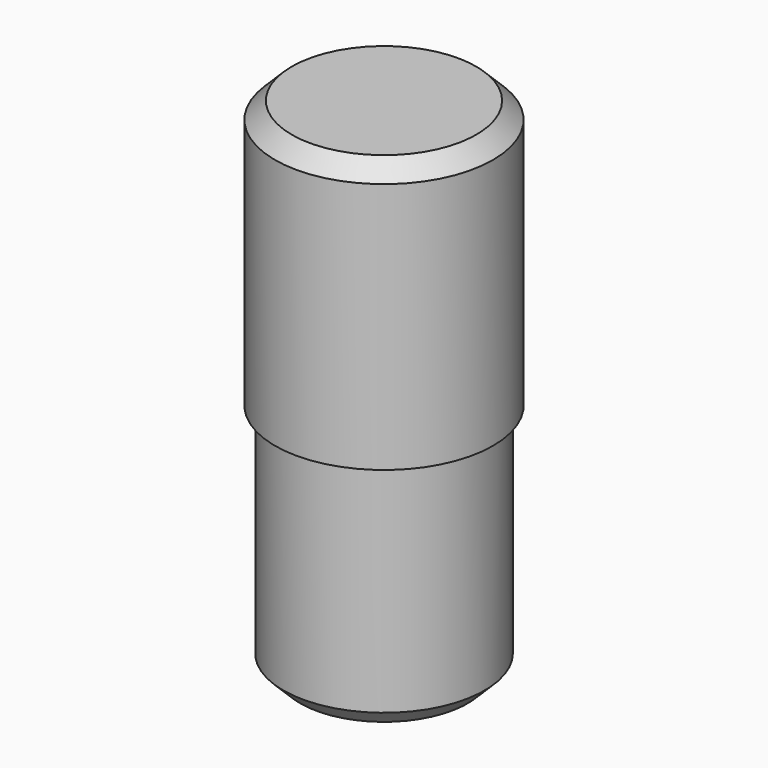
from build123d import *

# Parameters (mm, degrees)
F2_SIZE = 0.5
F3_SIZE = 0.5


with BuildPart() as f1:
    # F0 (on Front) → F1 (revolve)
    with BuildSketch(Plane.XZ):
        Polygon((0, -7), (0, 0), (0, 8), (-3.25, 8), (-3.25, 0), (-3, 0), (-3, -7), align=None)
    revolve(axis=Axis((0, 0, 4), (0, 0, 1)))

    # F2
    f2_edges = [f1.edges().sort_by_distance(p)[0] for p in [
        (3.25, 0, 8),
    ]]
    chamfer(f2_edges, length=F2_SIZE)

    # F3
    f3_edges = [f1.edges().sort_by_distance(p)[0] for p in [
        (3, 0, -7),
    ]]
    chamfer(f3_edges, length=F3_SIZE)


solid = f1.part
